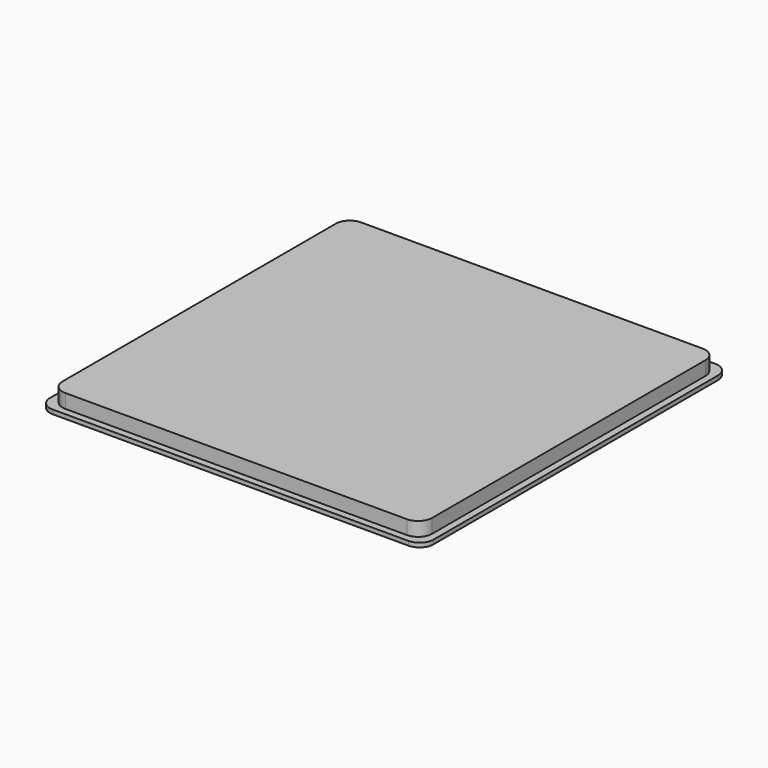
from build123d import *

# Parameters (mm, degrees)
F0_W     = 52.9
F0_H     = 52.9
F1_DEPTH = 2.6
F0_W_2   = 54.9
F0_H_2   = 54.9
F2_DEPTH = 0.6
F3_R     = 2


with BuildPart() as f1:
    # F0 (on Top) → F1 (new body)
    with BuildSketch(Plane.XY):
        Rectangle(F0_W, F0_H)
    extrude(amount=F1_DEPTH)

    # F0 (on Top) → F2 (join)
    with BuildSketch(Plane.XY):
        Rectangle(F0_W_2, F0_H_2)
        Rectangle(F0_W, F0_H, mode=Mode.SUBTRACT)
    extrude(amount=F2_DEPTH)

    # F3
    f3_edges = [f1.edges().sort_by_distance(p)[0] for p in [
        (-26.45, -26.45, 1.6),
        (26.45, -26.45, 1.6),
        (-26.45, 26.45, 1.6),
        (26.45, 26.45, 1.6),
        (-27.45, 27.45, 0.3),
        (-27.45, -27.45, 0.3),
        (27.45, -27.45, 0.3),
        (27.45, 27.45, 0.3),
    ]]
    fillet(f3_edges, radius=F3_R)


solid = f1.part
